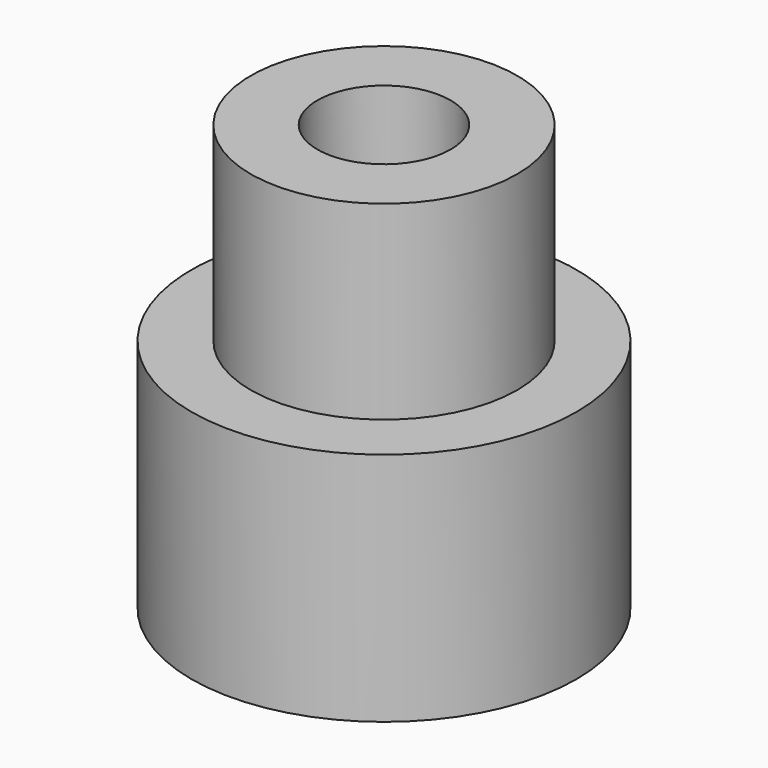
from build123d import *

# Parameters (mm, degrees)
F0_R     = 39.000467
F1_DEPTH = 55.626
F2_R     = 21.469452
F3_DEPTH = 29.464
F4_R     = 19.490474
F5_DEPTH = 25.4
F6_R     = 56.331947
F7_DEPTH = 68.834
F8_R     = 6.495267
F9_DEPTH = 169.164


with BuildPart() as f1:
    # F0 (on Top) → F1 (new body)
    with BuildSketch(Plane.XY):
        Circle(F0_R)
    extrude(amount=F1_DEPTH)

    # F2 (on face) → F3 (join)
    with BuildSketch(Plane.XY.offset(55.626)):
        Circle(F2_R)
    extrude(amount=-F3_DEPTH)

    # F4 (on face) → F5 (cut)
    with BuildSketch(Plane.XY.offset(55.626)):
        Circle(F4_R)
    extrude(amount=-F5_DEPTH, mode=Mode.SUBTRACT)

    # F6 (on face) → F7 (join)
    with BuildSketch(Plane(origin=(0, 0, 0), x_dir=(1, 0, 0), z_dir=(0, 0, -1))):
        Circle(F6_R)
    extrude(amount=F7_DEPTH)

    # F8 (on face) → F9 (cut)
    with BuildSketch(Plane.XY.offset(30.226)):
        Circle(F8_R)
    extrude(amount=-F9_DEPTH, mode=Mode.SUBTRACT)


solid = f1.part
